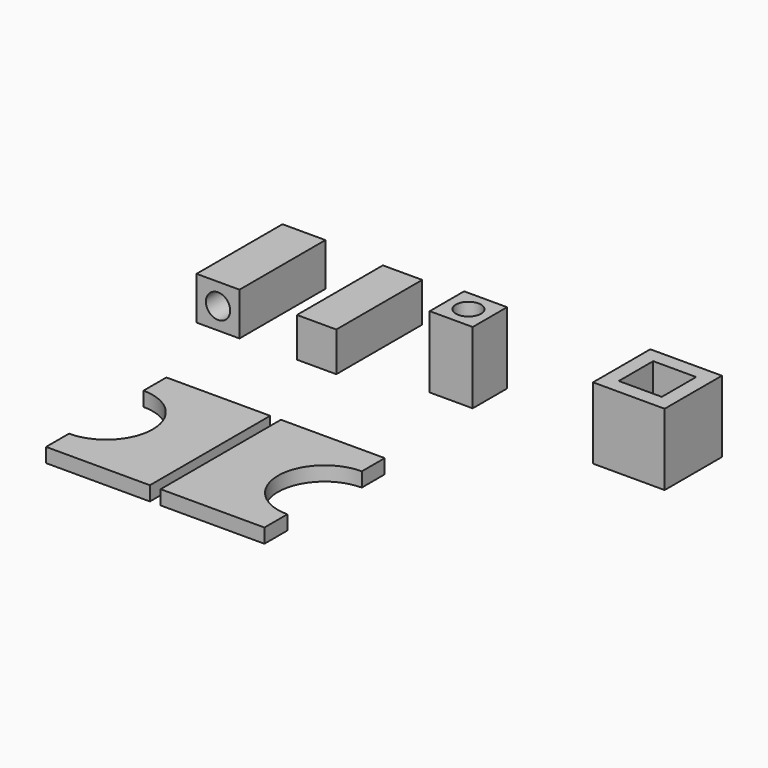
from build123d import *

# Parameters (mm, degrees)
F0_W     = 6
F0_H     = 6
F0_R     = 1.7
F0_W_2   = 5.5
F0_H_2   = 5.5
F2_DEPTH = 15
F1_W     = 6
F1_H     = 6
F1_R     = 1.75
F1_W_2   = 10
F1_H_2   = 10
F3_DEPTH = 10
F5_DEPTH = 2


with BuildPart() as f2:
    # F0 (on Front) → F2 (new body)
    with BuildSketch(Plane.XZ):
        with Locations((-20.168871, 3)):
            Rectangle(F0_W, F0_H)
        with Locations((-20.168871, 3)):
            Circle(F0_R, mode=Mode.SUBTRACT)
        with Locations((-6.397986, 2.75)):
            Rectangle(F0_W_2, F0_H_2)
    extrude(amount=F2_DEPTH)


with BuildPart() as f3:
    # F1 (on Top) → F3 (new body)
    with BuildSketch(Plane.XY):
        Rectangle(F1_W, F1_H)
        Circle(F1_R, mode=Mode.SUBTRACT)
        with Locations((26.405711, 0)):
            Rectangle(F1_W_2, F1_H_2)
        with Locations((26.405711, 0)):
            Rectangle(F1_W, F1_H, mode=Mode.SUBTRACT)
    extrude(amount=F3_DEPTH)


with BuildPart() as f3_1:
    # F4: moved
    add(f3.part.moved(Location((10, -9, 0))))


with BuildPart() as f5:
    # F1 (on Top) → F5 (new body)
    with BuildSketch(Plane.XY):
        with BuildLine():
            Line((-0.747877, -51.168242), (-0.747877, -30.168242))
            Line((-0.747877, -30.168242), (-15.247877, -30.168242))
            Line((-15.247877, -30.168242), (-15.247877, -34.168242))
            ThreePointArc((-15.247877, -34.168242), (-8.747877, -40.668242), (-15.247877, -47.168242))
            Line((-15.247877, -47.168242), (-15.247877, -51.168242))
            Line((-15.247877, -51.168242), (-0.747877, -51.168242))
        make_face()
        with BuildLine():
            Line((0.747877, -30.168242), (0.747877, -51.168242))
            Line((0.747877, -51.168242), (15.247877, -51.168242))
            Line((15.247877, -51.168242), (15.247877, -47.168242))
            ThreePointArc((15.247877, -47.168242), (8.747877, -40.668242), (15.247877, -34.168242))
            Line((15.247877, -34.168242), (15.247877, -30.168242))
            Line((15.247877, -30.168242), (0.747877, -30.168242))
        make_face()
    extrude(amount=F5_DEPTH)


solid = Compound([f2.part, f3_1.part, f5.part])
